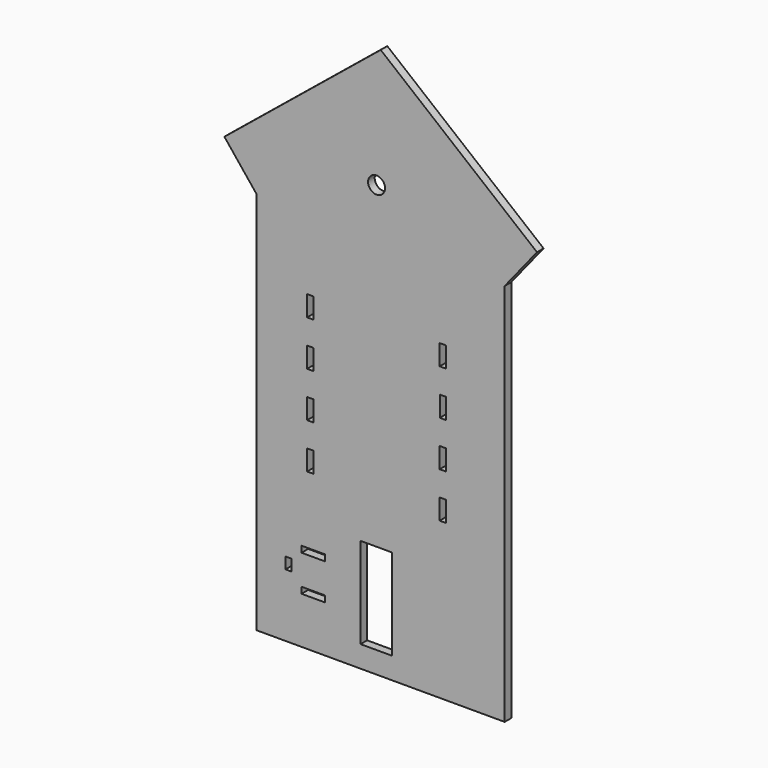
from build123d import *

# Parameters (mm, degrees)
F0_W     = 19.1008
F0_H     = 34.925
F0_W_2   = 72.136
F0_H_2   = 19.1008
F0_W_3   = 96.012
F0_H_3   = 279.4
F0_W_4   = 19.431
F0_H_4   = 62.737998
F0_W_5   = 19.3548
F0_H_5   = 62.738
F0_H_6   = 62.992
F0_R     = 26.025224
F1_DEPTH = 25.4


with BuildPart() as f1:
    # F0 (on Front) → F1 (new body)
    with BuildSketch(Plane.XZ):
        Polygon((12.727918, 557.499766), (-467.555925, 166.415552), (-368.272082, 42.7843), (-368.272082, -618.276235), (-368.272082, -1136.548519), (393.727918, -1136.548519), (393.727918, -618.276235), (393.727918, 42.7843), (493.011761, 166.415552), align=None)
        with Locations((-270.224877, -925.450377)):
            Rectangle(F0_W, F0_H, mode=Mode.SUBTRACT)
        with Locations((-194.402747, -983.356682)):
            Rectangle(F0_W_2, F0_H_2, mode=Mode.SUBTRACT)
        with Locations((-1.08871, -930.430109)):
            Rectangle(F0_W_3, F0_H_3, mode=Mode.SUBTRACT)
        with Locations((-194.402747, -872.307882)):
            Rectangle(F0_W_2, F0_H_2, mode=Mode.SUBTRACT)
        with Locations((-203.619584, -625.265823)):
            Rectangle(F0_W_4, F0_H_4, mode=Mode.SUBTRACT)
        with Locations((-203.6826, -486.327824)):
            Rectangle(F0_W_5, F0_H_5, mode=Mode.SUBTRACT)
        with Locations((-203.828264, -347.262824)):
            Rectangle(F0_W, F0_H_6, mode=Mode.SUBTRACT)
        with Locations((203.454484, -625.646824)):
            Rectangle(F0_W, F0_H_6, mode=Mode.SUBTRACT)
        with Locations((203.4794, -486.454824)):
            Rectangle(F0_W, F0_H_6, mode=Mode.SUBTRACT)
        with Locations((203.828264, -347.262824)):
            Rectangle(F0_W, F0_H_6, mode=Mode.SUBTRACT)
        with Locations((-203.807441, -208.070824)):
            Rectangle(F0_W, F0_H_6, mode=Mode.SUBTRACT)
        with Locations((0, 187.761217)):
            Circle(F0_R, mode=Mode.SUBTRACT)
        with Locations((203.642379, -208.070824)):
            Rectangle(F0_W_4, F0_H_6, mode=Mode.SUBTRACT)
    extrude(amount=F1_DEPTH)


solid = f1.part
